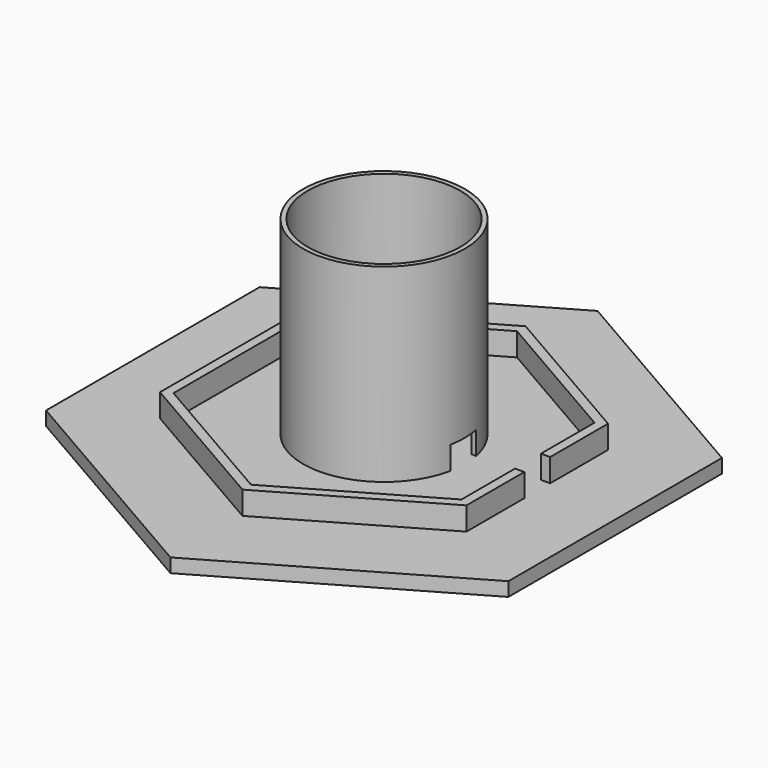
from build123d import *

# Parameters (mm, degrees)
F1_DEPTH = 3
F3_DEPTH = 5
F5_DEPTH = 5
F6_R     = 17.5
F6_R_2   = 16.5
F7_DEPTH = 41
F8_W     = 3.5
F8_H     = 4
F9_DEPTH = 25


with BuildPart() as f1:
    # F0 (on Top) → F1 (new body)
    with BuildSketch(Plane.XY):
        Polygon((49.999933, 28.867475), (0, 57.73495), (-49.999933, 28.867475), (-49.999933, -28.867475), (0, -57.73495), (49.999933, -28.867475), align=None)
    extrude(amount=F1_DEPTH)

    # F2 (on face) → F3 (join)
    with BuildSketch(Plane.XY.offset(3)):
        Polygon((33.143658, 19.1355), (0, 38.271), (-33.143658, 19.1355), (-33.143658, -19.1355), (0, -38.271), (33.143658, -19.1355), align=None)
    extrude(amount=F3_DEPTH)

    # F4 (on face) → F5 (cut)
    with BuildSketch(Plane.XY.offset(8)):
        Polygon((31.143884, 17.98093), (0, 35.96186), (-31.143884, 17.98093), (-31.143884, -17.98093), (0, -35.96186), (31.143884, -17.98093), align=None)
    extrude(amount=-F5_DEPTH, mode=Mode.SUBTRACT)

    # F6 (on face) → F7 (join)
    with BuildSketch(Plane.XY.offset(3)):
        Circle(F6_R)
        Circle(F6_R_2, mode=Mode.SUBTRACT)
    extrude(amount=F7_DEPTH)

    # F8 (on face) → F9 (cut)
    with BuildSketch(Plane.YZ.offset(33.143658)):
        with Locations((-1.75, 5)):
            Rectangle(F8_W, F8_H)
        with Locations((1.75, 5)):
            Rectangle(F8_W, F8_H)
        Polygon((-3.5, 7), (0, 7), (3.5, 7), (3.5, 8), (-3.5, 8), align=None)
    extrude(amount=-F9_DEPTH, mode=Mode.SUBTRACT)


solid = f1.part
